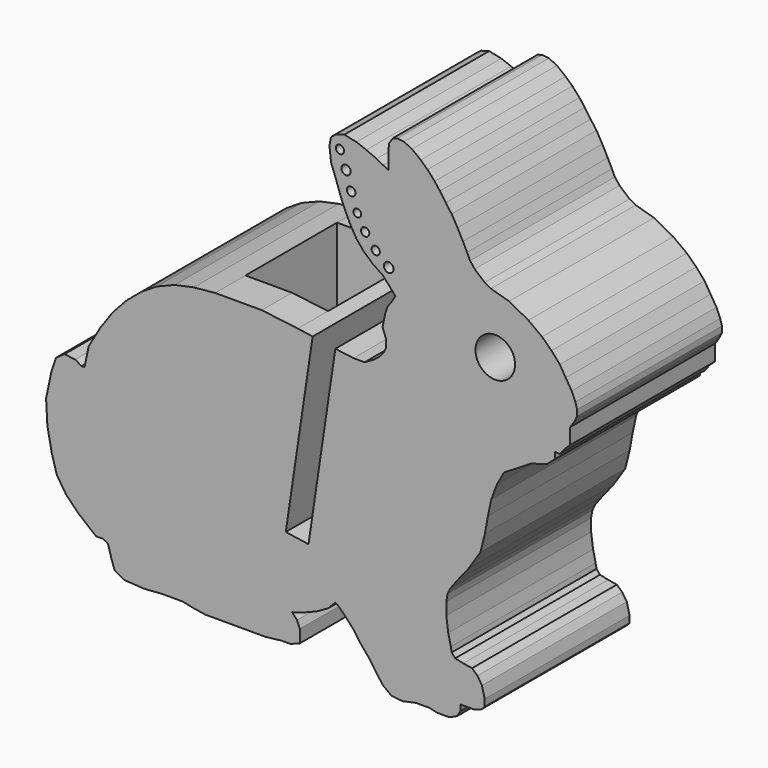
from build123d import *

# Parameters (mm, degrees)
F0_R      = 2.25
F1_DEPTH  = 3
F2_DEPTH  = 17.6
F3_R      = 0.5301400896
F3_R_2    = 0.4955548785
F3_R_3    = 0.442
F3_R_4    = 0.4731848636
F3_R_5    = 0.4689442699
F4_DEPTH  = 4.3
F5_R      = 0.4710514532
F5_R_2    = 0.5493177131
F5_R_3    = 0.4689442699
F5_R_4    = 0.4731848636
F5_R_5    = 0.442
F5_R_6    = 0.5301400896
F5_R_7    = 0.4955548785
F6_DEPTH  = 5.9
F7_W      = 6.7956339109
F7_H      = 16.2855319213
F8_DEPTH  = 10
F9_W      = 1.892045081
F9_H      = 16.2855319213
F10_DEPTH = 10
F11_DEPTH = 14.7
F12_W     = 5.3056562265
F12_H     = 13.0310335662
F13_DEPTH = 10
F14_W     = 4.1350234728
F14_H     = 13.0310335662
F15_DEPTH = 10
F17_DEPTH = 15.7
F18_DEPTH = 6.1


with BuildPart() as f1:
    # F0 (on Front) → F1 (new body)
    with BuildSketch(Plane.XZ):
        Polygon((59.1779698418, 31.194587481), (59.1779698418, 31.9005881237), (59.7388577371, 31.8816154154), (60.3070678192, 32.6076158289), (60.8939676434, 33.1560252645), (60.8939676434, 33.94444243), (60.8939676434, 34.9491785137), (61.3608548692, 35.6423513558), (61.6794760284, 36.3066197257), (61.6794760284, 36.964568034), (61.4824255283, 37.650985105), (61.0625805582, 38.6402383967), (60.3881708198, 39.7264862101), (59.7092475961, 40.8400280338), (58.7607938368, 41.9245535961), (57.6865458859, 42.9608735974), (56.131929641, 44.1080185295), (53.9428997059, 45.2900241974), (51.8717793367, 45.8880749855), (51.1641228177, 46.2767657275), (50.0276083315, 47.254787707), (49.500445814, 47.9175015095), (49.1623850594, 48.6403019596), (48.6890909202, 49.5821496811), (48.0721058512, 50.756745827), (47.4028453988, 51.9204250674), (46.7350661522, 52.8268286536), (46.0711401365, 53.7907023235), (45.4648239409, 54.5656838351), (44.6564314585, 55.4715389559), (43.8822848719, 56.1802155505), (42.8986280226, 56.9550049245), (41.9814228134, 57.3815747084), (41.2078828484, 57.4680692876), (40.7050007603, 57.323706376), (40.2931032973, 56.6803844909), (40.199734935, 55.9481483411), (40.199734935, 53.9804748212), (39.6002588357, 54.273896786), (38.8731125838, 54.6692215131), (37.691644901, 55.1789449292), (36.5735721249, 55.6012317928), (35.1899154237, 55.8898272879), (34.2816298321, 55.6290847487), (33.6731372422, 55.1684227791), (33.4962484397, 54.2325872158), (33.6837781683, 52.5928086281), (34.1659036474, 51.3379723538), (34.7663858487, 49.5873513683), (35.2569758596, 48.3876865141), (35.9067640461, 47.0506118809), (36.5332756434, 45.9664146991), (37.3798895218, 44.924222276), (38.3908508618, 44.0280229397), (39.5714766328, 43.2154907668), (40.3047049111, 42.4076781904), (41.0011964924, 41.6110026044), (40.6037128381, 40.9368513783), (40.0780839274, 40.1968563654), (39.8294614492, 39.436208314), (39.5429389686, 38.0218070561), (39.9435562115, 36.928816962), (39.9435562115, 36.0942029461), (39.6868255292, 35.5139231333), (39.2115087057, 34.9491785137), (38.4849423599, 34.4103130735), (37.4947947552, 33.8397134992), (36.2388370964, 33.8397134992), (34.1682477254, 34.1105470766), (31.5846720936, 34.4943121109), (29.9018896319, 34.7448454842), (25.7982475776, 35.2533147662), (22.9338105357, 35.2533147662), (20.4925913511, 35.2533147662), (18.0653283384, 35.0201785734), (15.8854493902, 34.5568092112), (13.8497609292, 33.7397600595), (12.1293465844, 32.6644815528), (10.4578391027, 31.2680783419), (8.8429108853, 29.5349174183), (7.4372964263, 27.5334818399), (6.0921336762, 25.2153127735), (5.626352988, 22.9853138756), (5.2811054162, 22.9853138756), (4.5523054715, 23.3941563518), (3.3652996425, 23.5582872219), (2.3869021215, 22.8734776027), (1.8580647324, 21.2996615779), (1.2503211514, 18.4274045382), (1.3953504937, 15.7512989625), (1.9034004358, 13.1371476651), (2.4727079067, 11.1539892033), (3.5306752582, 9.5370138477), (4.8935674994, 8.138209791), (6.9346738022, 6.4682455231), (7.7356851464, 6.4682455231), (8.3006708113, 6.139061086), (8.7042880198, 4.7330776356), (9.059931979, 3.7272284641), (10.1391117511, 3.1285394737), (12.4473123728, 2.994476163), (14.4526387363, 3.1366197305), (16.8182124996, 3.1366197305), (18.0060434283, 2.8763879966), (19.3903542013, 2.6614952628), (21.883129127, 2.6614952628), (23.7435637012, 2.6614952628), (26.1859881122, 2.6614952628), (28.06579015, 2.8763879966), (29.066299208, 2.8763879966), (30.1331987714, 3.287266694), (30.1331987714, 3.5115652152), (30.1331987714, 4.0722664313), (30.1331987714, 4.7332313456), (29.8045038484, 5.5102918726), (29.2580751761, 6.1180421129), (30.1753048391, 6.385948213), (31.1070111921, 6.7245609263), (32.1866285138, 7.1757989864), (33.3447322722, 7.8400621162), (34.1773899787, 8.6830629355), (34.5961799391, 8.3883274486), (35.2824532969, 7.6921380472), (36.3022424833, 6.5724259885), (37.0747716212, 5.4643229671), (38.0653628889, 4.2985577244), (38.7650963545, 3.287266694), (39.5393966511, 2.1927098055), (40.5617639739, 1.4101439923), (41.8474854837, 1.29517555), (43.3533756495, 1.6162313684), (44.9111674038, 1.6162313684), (45.7386897979, 1.4101439923), (47.1447348197, 1.4101439923), (48.0390547016, 1.8218246455), (48.391113549, 2.4300583955), (48.391113549, 3.1064440938), (49.9711618169, 3.1064440938), (50.7690600963, 3.3749897061), (51.1641228177, 3.7687113949), (51.1641228177, 4.5507251402), (50.8511063176, 5.8227389469), (50.331727117, 6.6105731496), (49.7232345272, 7.1669628431), (48.7272878623, 7.3274251963), (47.8059953638, 7.5314743863), (47.4058916521, 7.9913136579), (47.3091591362, 8.5442592861), (47.0176340929, 9.8221136372), (46.7949781293, 11.4877626708), (46.7949781293, 12.8848767905), (46.9349625513, 13.7100262861), (47.2396647362, 14.3331588828), (48.0156837904, 15.3890061712), (49.3168950791, 17.0124460815), (50.682930079, 19.1019749735), (51.1880177404, 21.1130785633), (51.5269728079, 22.9853138756), (51.9142522124, 24.7934957735), (52.5664263977, 26.5176664071), (53.3611806084, 27.9593477017), (56.4587800437, 29.8548648433), (58.2113468584, 30.3689550216), align=None)
        with Locations((52.3673893774, 39.17497812)):
            Circle(F0_R, mode=Mode.SUBTRACT)
    extrude(amount=F1_DEPTH)

    # F2 (add): a face of the model
    f2_faces = [f1.faces().sort_by_distance(p)[0] for p in [
        (31.8904414267, -3, 24.0565595855),
    ]]
    extrude(f2_faces, amount=F2_DEPTH)

    # F3 (on face) → F4 (cut)
    with BuildSketch(Plane.XZ.offset(20.6)):
        with Locations((35.3854671121, 52.4217747152)):
            Circle(F3_R)
        with Locations((35.9677560627, 50.4548065364)):
            Circle(F3_R_2)
        with Locations((36.6663892886, 48.5216420643)):
            Circle(F3_R_3)
        with Locations((37.5593416393, 46.915885061)):
            Circle(F3_R_4)
        with Locations((38.7627333403, 45.4453184876)):
            Circle(F3_R_5)
    extrude(amount=-F4_DEPTH, mode=Mode.SUBTRACT)

    # F5 (on face) → F6 (cut)
    with BuildSketch(Plane.XZ.offset(20.6)):
        with Locations((34.6922241151, 54.2521476746)):
            Circle(F5_R)
        with Locations((40.2394011617, 44.2266054451)):
            Circle(F5_R_2)
        with Locations((38.7627333403, 45.4453184876)):
            Circle(F5_R_3)
        with Locations((37.5593416393, 46.915885061)):
            Circle(F5_R_4)
        with Locations((36.6663892886, 48.5216420643)):
            Circle(F5_R_5)
        with Locations((35.3854671121, 52.4217747152)):
            Circle(F5_R_6)
        with Locations((35.9677560627, 50.4548065364)):
            Circle(F5_R_7)
    extrude(amount=-F6_DEPTH, mode=Mode.SUBTRACT)

    # F7 (on face) → F8 (cut)
    with BuildSketch(Plane(origin=(0, 0, 2.6614952628), x_dir=(1, 0, 0), z_dir=(0, 0, -1))):
        with Locations((22.7881711568, 10.1209558779)):
            Rectangle(F7_W, F7_H)
    extrude(amount=-F8_DEPTH, mode=Mode.SUBTRACT)

    # F9 (on face) → F10 (cut)
    with BuildSketch(Plane(origin=(0.0374635583, 0, -0.3277173312), x_dir=(0.9935292011, 0, 0.1135769628), z_dir=(0.1135769628, 0, -0.9935292011))):
        with Locations((27.2648509392, 10.1209558779)):
            Rectangle(F9_W, F9_H)
    extrude(amount=-F10_DEPTH, mode=Mode.SUBTRACT)

    # F11 (cut): a face of the model
    f11_faces = [f1.faces().sort_by_distance(p)[0] for p in [
        (32.8764599095, -10.3, 34.3024295937),
    ]]
    extrude(f11_faces, amount=-F11_DEPTH, mode=Mode.SUBTRACT)

    # F12 (on face) → F13 (cut)
    with BuildSketch(Plane.XY.offset(35.2533147662)):
        with Locations((23.1454194643, -9.7860313253)):
            Rectangle(F12_W, F12_H)
    extrude(amount=-F13_DEPTH, mode=Mode.SUBTRACT)

    # F14 (on face) → F15 (cut)
    with BuildSketch(Plane(origin=(4.6921661262, 0, 37.8685024311), x_dir=(0.9924108246, 0, -0.1229664802), z_dir=(0.1229664802, 0, 0.9924108246))):
        with Locations((23.3349958554, -9.7860313253)):
            Rectangle(F14_W, F14_H)
    extrude(amount=-F15_DEPTH, mode=Mode.SUBTRACT)

    # F16 (on Right) → F17 (cut)
    with BuildSketch(Plane.YZ):
        Polygon((-1.6707308823, 18.9792569727), (-1.6707308823, 22.1766326576), (-19.6592882276, 22.7604396641), (-19.6592882276, 18.9792569727), align=None)
    extrude(amount=F17_DEPTH, mode=Mode.SUBTRACT)

    # F18 (cut): a face of the model
    f18_faces = [f1.faces().sort_by_distance(p)[0] for p in [
        (30.7166154997, -10.3, 19.7619663231),
    ]]
    extrude(f18_faces, amount=-F18_DEPTH, mode=Mode.SUBTRACT)


solid = f1.part
